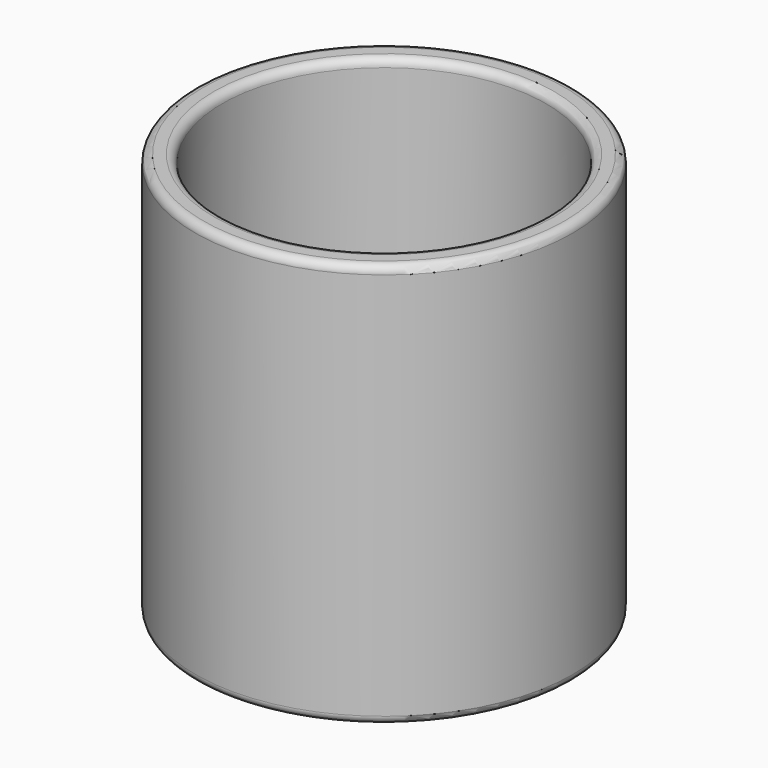
from build123d import *

# Parameters (mm, degrees)
CYLINDER001_R     = 30
CYLINDER001_DEPTH = 75
CYLINDER_R        = 35
CYLINDER_DEPTH    = 75
FILLET_R          = 1.5


with BuildPart() as cylinder001:
    # Cylinder001 → Cylinder001 (new body)
    with BuildSketch(Plane.XY.offset(37)):
        Circle(CYLINDER001_R)
    extrude(amount=CYLINDER001_DEPTH)


with BuildPart() as fusion:
    # Sphere → Sphere (revolve)
    with BuildSketch(Plane(origin=(0, 0, 37), x_dir=(1, 0, 0), z_dir=(0, -1, 0))):
        with BuildLine():
            ThreePointArc((0, -30), (30, 0), (0, 30))
            Line((0, 30), (0, -30))
        make_face()
    revolve(axis=Axis((0, 0, 37), (0, 0, 1)))

    # Fusion: union Cylinder001
    add(cylinder001.part)


with BuildPart() as fillet_body:
    # Cylinder → Cylinder (new body)
    with BuildSketch(Plane.XY):
        Circle(CYLINDER_R)
    extrude(amount=CYLINDER_DEPTH)

    # Cut: cut Fusion
    add(fusion.part, mode=Mode.SUBTRACT)

    # Fillet
    fillet_edges = [fillet_body.edges().sort_by_distance(p)[0] for p in [
        (-35, 0, 0),
        (-35, 0, 75),
        (-30, 0, 75),
    ]]
    fillet(fillet_edges, radius=FILLET_R)


solid = fillet_body.part
